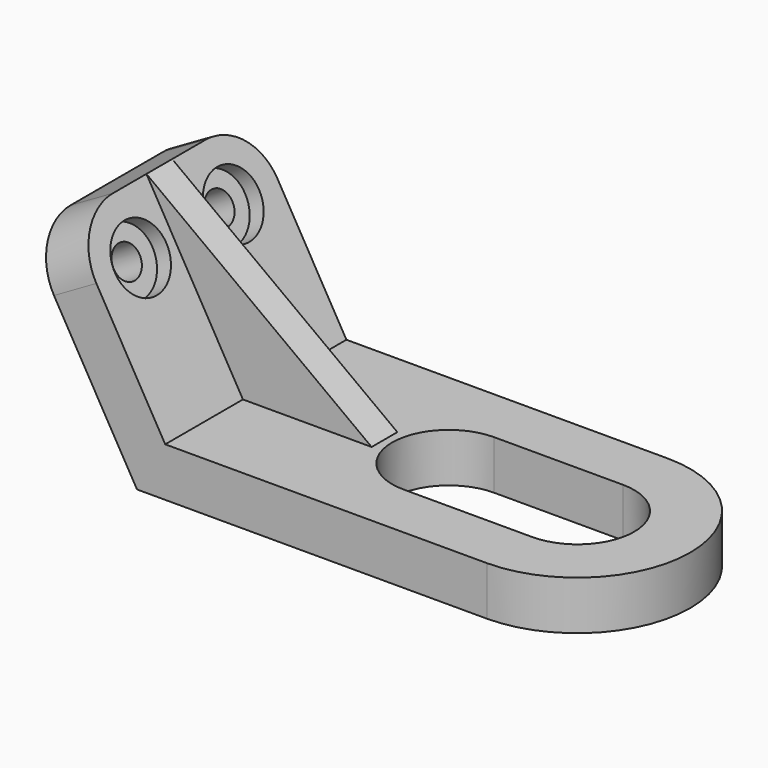
from build123d import *

# Parameters (mm, degrees)
F1_DEPTH = 22.352
F2_DEPTH = 3.175
F4_DEPTH = 25.4
F5_R     = 6.35
F5_R_2   = 3.175
F6_DEPTH = 3.175
F7_DEPTH = 25.4
F8_R     = 10.922


with BuildPart() as f1:
    # F0 (on Front) → F1 (new body, symmetric)
    with BuildSketch(Plane.XZ):
        Polygon((-34.0286190226, 0), (57.3959515745, 0), (57.3959515745, 9.652), (-3.0560484255, 9.652), (-28.4560484255, 9.652), (-47.5060484255, 42.6475678842), (-55.8726190226, 37.8349178405), align=None)
    extrude(amount=F1_DEPTH, both=True)

    # F0 (on Front) → F2 (join, symmetric)
    with BuildSketch(Plane.XZ):
        Polygon((-28.4560484255, 9.652), (-3.0560484255, 9.652), (-47.5060484255, 42.6475678842), align=None)
    extrude(amount=F2_DEPTH, both=True)

    # F3 (on face) → F4 (cut)
    with BuildSketch(Plane.XY.offset(9.652)):
        with BuildLine():
            ThreePointArc((35.0439515745, 22.352), (57.3043185829, -1.03671e-05), (35.043930755, -22.352))
            Line((35.043930755, -22.352), (57.3959515745, -22.352))
            Line((57.3959515745, -22.352), (57.3959515745, 22.352))
            Line((57.3959515745, 22.352), (35.0439515745, 22.352))
        make_face()
        with BuildLine():
            Line((35.0439515745, 11.176), (9.6439515745, 11.176))
            ThreePointArc((9.6439515745, 11.176), (-1.5320366113, -0.0162502311), (9.6764520023, -11.1759527434))
            Line((9.6764520023, -11.1759527434), (35.043930755, -11.176))
            ThreePointArc((35.043930755, -11.176), (46.2199515745, -1.04098e-05), (35.0439515745, 11.176))
        make_face()
    extrude(amount=-F4_DEPTH, mode=Mode.SUBTRACT)

    # F5 (on face) → F6 (cut)
    with BuildSketch(Plane(origin=(-17.1625977204, 0, -9.9088304139), x_dir=(0, 1, 0), z_dir=(0.8660254038, 0, 0.5))):
        with Locations((11.43, 49.7649014101)):
            Circle(F5_R)
        with Locations((11.43, 49.7649014101)):
            Circle(F5_R_2, mode=Mode.SUBTRACT)
        with Locations((-11.43, 49.7649014101)):
            Circle(F5_R)
        with Locations((-11.43, 49.7649014101)):
            Circle(F5_R_2, mode=Mode.SUBTRACT)
    extrude(amount=-F6_DEPTH, mode=Mode.SUBTRACT)

    # F7 (cut): faces of the model
    f7_faces = [f1.faces().sort_by_distance(p)[0] for p in [
        (-42.0450484255, -11.43, 33.1888384241),
        (-42.0450484255, 11.43, 33.1888384241),
    ]]
    extrude(f7_faces, amount=-F7_DEPTH, mode=Mode.SUBTRACT)

    # F8
    f8_edges = [f1.edges().sort_by_distance(p)[0] for p in [
        (-51.689334, -22.352, 40.241243),
        (-51.689334, 22.352, 40.241243),
    ]]
    fillet(f8_edges, radius=F8_R)


solid = f1.part
